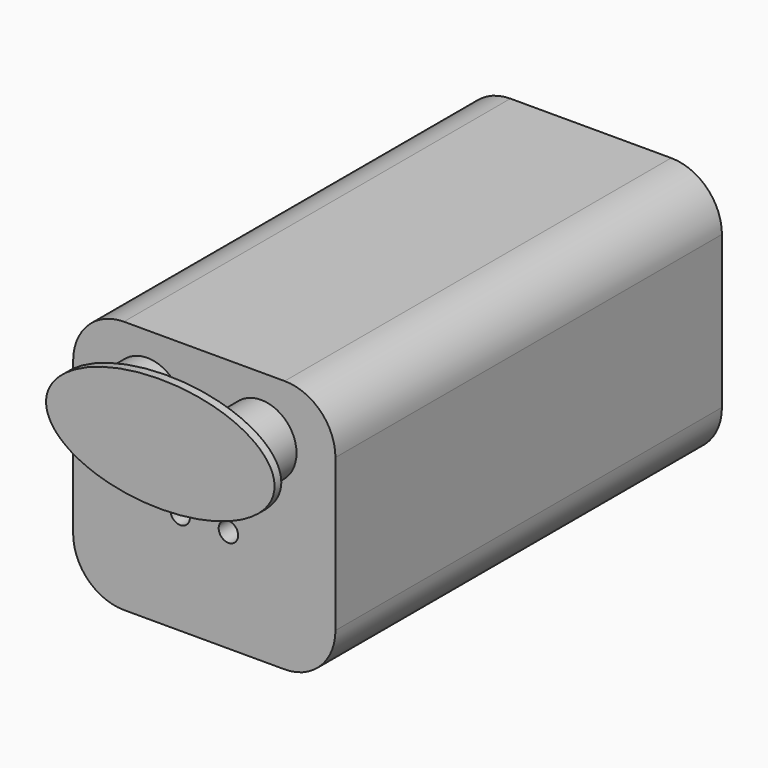
from build123d import *

# Parameters (mm, degrees)
F0_W     = 31
F0_H     = 30
F1_DEPTH = 28.55
F2_R     = 1.15
F3_DEPTH = 57.101
F4_R     = 4.175
F5_DEPTH = 5.5
F7_DEPTH = 1
F8_R     = 6


with BuildPart() as f1:
    # F0 (on Front) → F1 (new body, symmetric)
    with BuildSketch(Plane.XZ):
        Rectangle(F0_W, F0_H)
    extrude(amount=F1_DEPTH, both=True)

    # F2 (on face) → F3 (cut, through all)
    with BuildSketch(Plane(origin=(0, 28.55, 0), x_dir=(-1, 0, 0), z_dir=(0, 1, 0))):
        with Locations((-2.85, 2.85)):
            Circle(F2_R)
        with Locations((2.85, 2.85)):
            Circle(F2_R)
        with Locations((-2.85, -2.85)):
            Circle(F2_R)
        with Locations((2.85, -2.85)):
            Circle(F2_R)
    extrude(amount=-F3_DEPTH, mode=Mode.SUBTRACT)

    # F4 (on face) → F5 (join)
    with BuildSketch(Plane.XZ.offset(28.55)):
        with Locations((6.725, 7.965)):
            Circle(F4_R)
        with Locations((-6.725, 7.965)):
            Circle(F4_R)
    extrude(amount=F5_DEPTH)

    # F6 (on face) → F7 (join)
    with BuildSketch(Plane.XZ.offset(34.05)):
        with BuildLine():
            add(Edge.make_bspline(
                [(13.5, 8), (13.5, 19.691343), (-6.75, 13.845671), (-27, 8), (-6.75, 2.154329), (13.5, -3.691343), (13.5, 8)],
                knots=[0, 0, 0, 2.094395, 2.094395, 4.18879, 4.18879, 6.283185, 6.283185, 6.283185], degree=2, weights=[1, 0.5, 1, 0.5, 1, 0.5, 1]))
        make_face()
    extrude(amount=F7_DEPTH)

    # F8
    f8_edges = [f1.edges().sort_by_distance(p)[0] for p in [
        (-15.5, 0, 15),
        (15.5, 0, 15),
        (-15.5, 0, -15),
        (15.5, 0, -15),
    ]]
    fillet(f8_edges, radius=F8_R)


solid = f1.part
